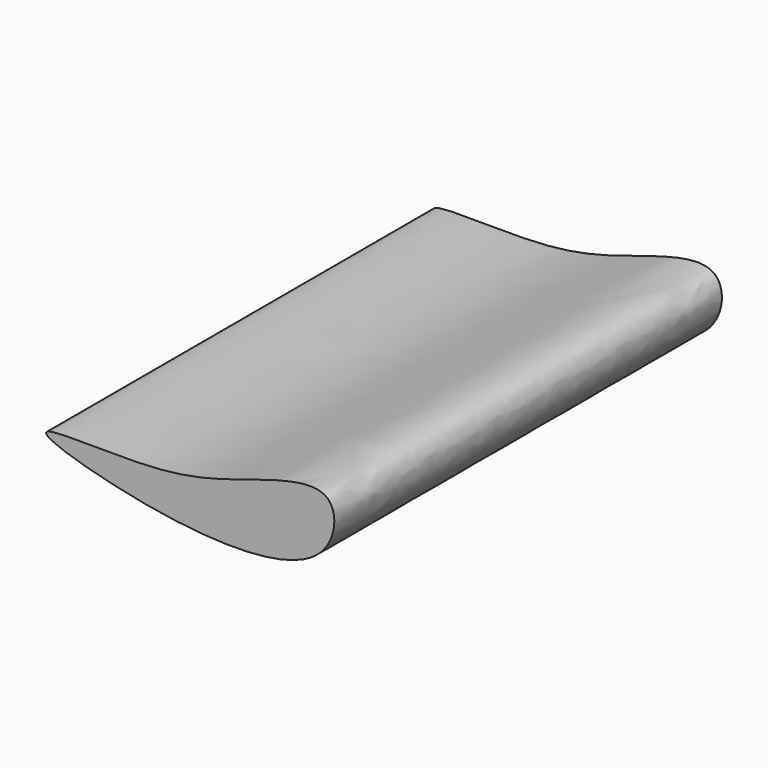
from build123d import *

# Parameters (mm, degrees)
F1_DEPTH = 203.2


with BuildPart() as f1:
    # F0 (on Front) → F1 (new body)
    with BuildSketch(Plane.XZ):
        with BuildLine():
            add(Edge.make_bspline(
                [(-50.313141197, -11.2998178229), (-51.6201560613, -14.0561912817), (4.4901450286, -30.7220898206), (69.993857571, -28.642699416), (73.2133489482, 12.2884595381), (27.3933721676, -4.1248129611), (-3.7329546307, -11.900002905), (-49.1713140111, -8.8918098993), (-50.313141197, -11.2998178229)],
                knots=[0, 0, 0, 0, 0.1867317684, 0.3966479479, 0.5129829381, 0.6675974851, 0.8368684126, 1, 1, 1, 1], degree=3))
        make_face()
    extrude(amount=F1_DEPTH)


solid = f1.part
